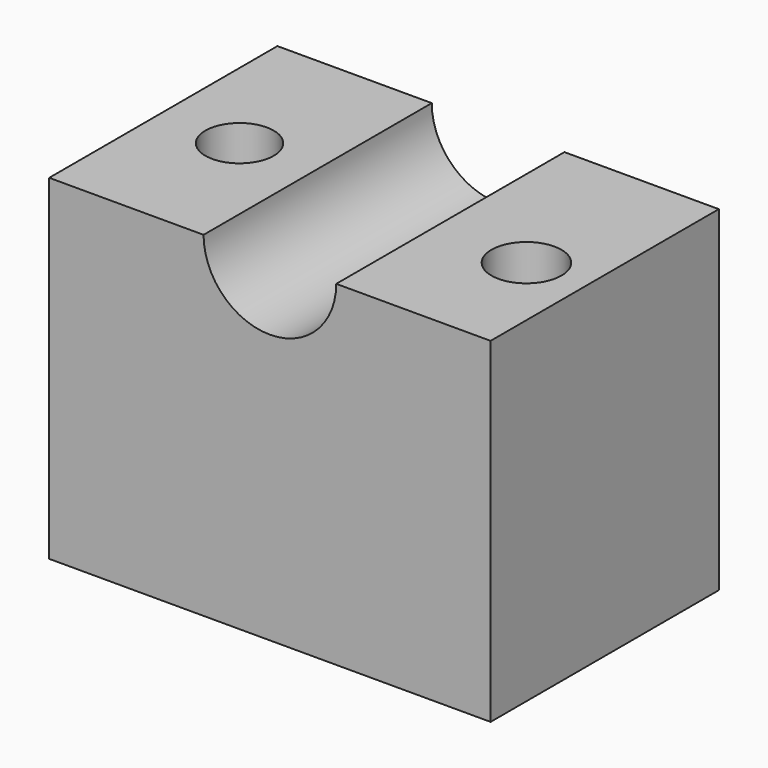
from build123d import *

# Parameters (mm, degrees)
F0_W     = 117.912918
F0_H     = 89.618679
F1_DEPTH = 76.2
F2_R     = 9.121571
F4_DEPTH = 89.619679
F3_R     = 9.352292
F5_DEPTH = 89.619679
F7_DEPTH = 76.201


with BuildPart() as f1:
    # F0 (on Front) → F1 (new body)
    with BuildSketch(Plane.XZ):
        with Locations((0.175312, 0.850113)):
            Rectangle(F0_W, F0_H)
    extrude(amount=F1_DEPTH)

    # F2 (on face) → F4 (cut, through all)
    with BuildSketch(Plane.XY.offset(45.659453)):
        with Locations((-37.546594, -39.185531)):
            Circle(F2_R)
    extrude(amount=-F4_DEPTH, mode=Mode.SUBTRACT)

    # F3 (on face) → F5 (cut, through all)
    with BuildSketch(Plane.XY.offset(45.659453)):
        with Locations((42.910393, -43.953352)):
            Circle(F3_R)
    extrude(amount=-F5_DEPTH, mode=Mode.SUBTRACT)

    # F6 (on face) → F7 (cut, through all)
    with BuildSketch(Plane.XZ.offset(76.2)):
        with BuildLine():
            ThreePointArc((-17.547329, 45.659453), (0.175312, 27.936811), (17.897953, 45.659453))
            Line((17.897953, 45.659453), (-17.547329, 45.659453))
        make_face()
    extrude(amount=-F7_DEPTH, mode=Mode.SUBTRACT)


solid = f1.part
